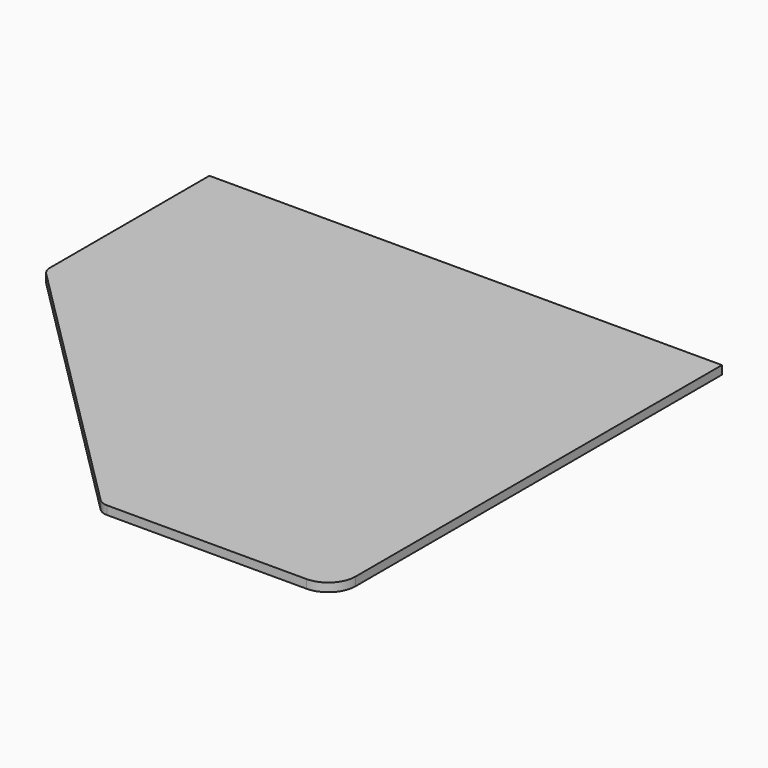
from build123d import *

# Parameters (mm, degrees)
F1_DEPTH = 15.875
F2_R     = 50.8
F3_R     = 25.4
F4_R     = 25.4
F5_R     = 1.5875
F6_DEPTH = 12.7


with BuildPart() as f1:
    # F0 (on Top) → F1 (new body)
    with BuildSketch(Plane.XY):
        Polygon((0, -901.7), (0, 0), (-952.5, 0), (-952.5, -381), (-431.8, -901.7), align=None)
    extrude(amount=-F1_DEPTH)

    # F2
    f2_edges = [f1.edges().sort_by_distance(p)[0] for p in [
        (0, -901.7, -7.9375),
    ]]
    fillet(f2_edges, radius=F2_R)

    # F3
    f3_edges = [f1.edges().sort_by_distance(p)[0] for p in [
        (-431.8, -901.7, -7.9375),
    ]]
    fillet(f3_edges, radius=F3_R)

    # F4
    f4_edges = [f1.edges().sort_by_distance(p)[0] for p in [
        (-952.5, -381, -7.9375),
    ]]
    fillet(f4_edges, radius=F4_R)

    # F5 (on face) → F6 (cut)
    with BuildSketch(Plane(origin=(0, 0, -15.875), x_dir=(1, 0, 0), z_dir=(0, 0, -1))):
        with Locations((-101.6, 50.8)):
            Circle(F5_R)
    extrude(amount=-F6_DEPTH, mode=Mode.SUBTRACT)


solid = f1.part
